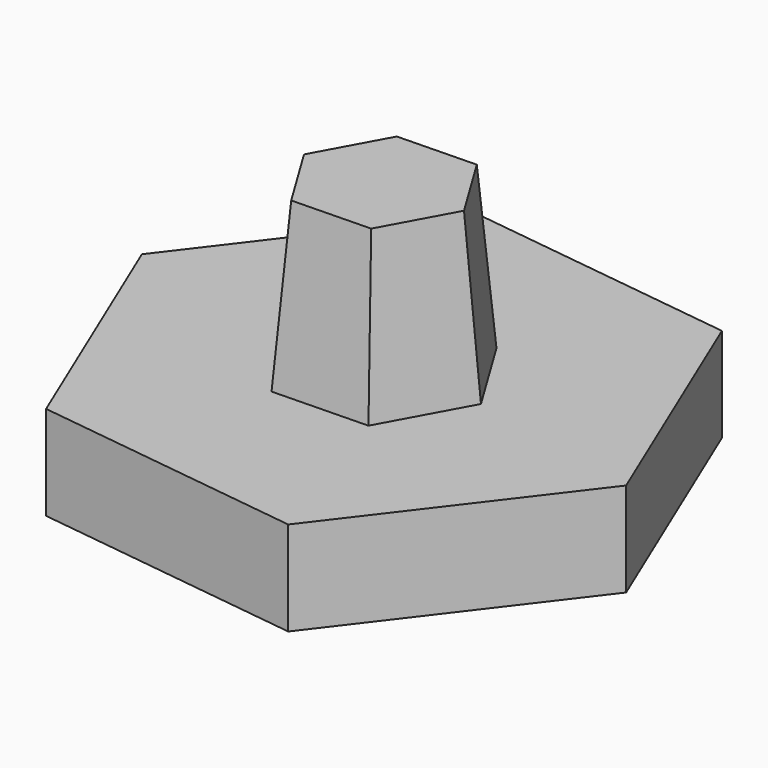
from build123d import *

# Parameters (mm, degrees)
F1_DEPTH      = 7
F1_TAPER      = 5
F1_DEPTH_BACK = 4
F2_DEPTH      = 4


with BuildPart() as f1:
    # F0 (on Top) → F1 (new body, two sides)
    with BuildSketch(Plane.XY) as f1_sk:
        Polygon((2.1021953077, -3.451681941), (4.0403419005, 0.0947135697), (1.9381465928, 3.5463955107), (-2.1021953077, 3.451681941), (-4.0403419005, -0.0947135697), (-1.9381465928, -3.5463955107), align=None)
    extrude(amount=F1_DEPTH, taper=F1_TAPER)
    extrude(f1_sk.sketch, amount=-F1_DEPTH_BACK)

    # F0 (on Top) → F2 (join)
    with BuildSketch(Plane.XY):
        Polygon((4.4552405715, -10.6528946669), (11.4532976911, -1.4680958186), (6.9980571196, 9.1847988483), (-4.4552405715, 10.6528946669), (-11.4532976911, 1.4680958186), (-6.9980571196, -9.1847988483), align=None)
        Polygon((1.9381465928, 3.5463955107), (4.0403419005, 0.0947135697), (2.1021953077, -3.451681941), (-1.9381465928, -3.5463955107), (-4.0403419005, -0.0947135697), (-2.1021953077, 3.451681941), align=None, mode=Mode.SUBTRACT)
    extrude(amount=-F2_DEPTH)


solid = f1.part
